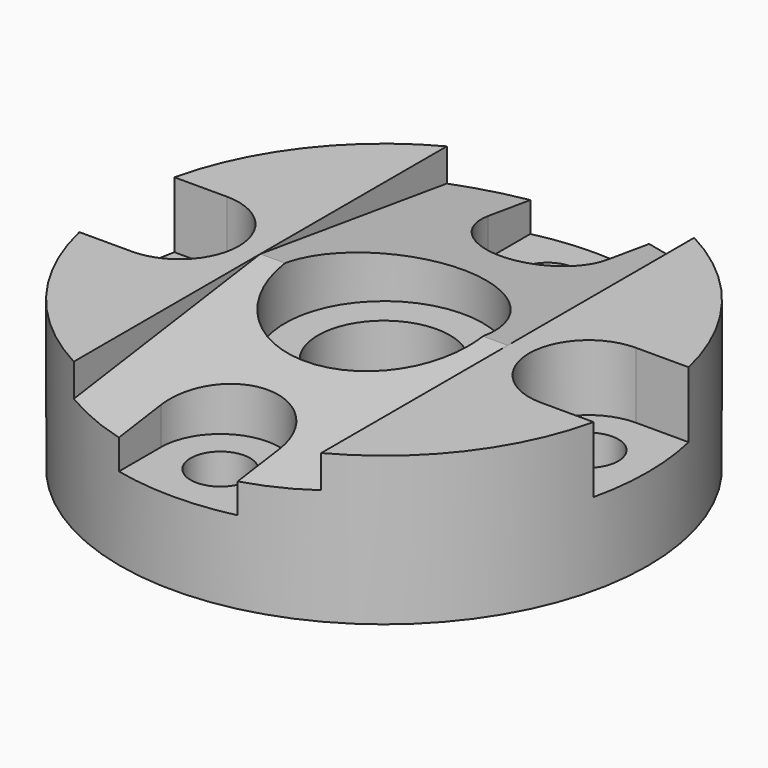
from build123d import *

# Parameters (mm, degrees)
PAD001_DEPTH          = 37.5
SKETCH_R              = 80
SKETCH_R_2            = 20
PAD_DEPTH             = 45
SKETCH001_R           = 30
POCKET_DEPTH          = 16
POCKET001_DEPTH       = 20
POLARPATTERN_COUNT    = 4
SKETCH003_R           = 9
POCKET002_DEPTH       = 486.41188
POLARPATTERN001_COUNT = 4


with BuildPart() as pad001:
    # Sketch004 → Pad001 (new body, symmetric)
    with BuildSketch(Plane.YZ):
        Polygon((0, 45), (-85, 33.054029), (-85, 45), align=None)
    extrude(amount=PAD001_DEPTH, both=True)


with BuildPart() as part_mirroring:
    # Part__Mirroring: instance of Pad001
    add(pad001.part.mirror(Plane(origin=(0, 0, 0), x_dir=(1, 0, 0), z_dir=(0, 1, 0))))


with BuildPart() as cut001:
    # Sketch → Pad (new body)
    with BuildSketch(Plane.XY):
        Circle(SKETCH_R)
        Circle(SKETCH_R_2, mode=Mode.SUBTRACT)
    extrude(amount=PAD_DEPTH)

    # Sketch001 → Pocket (cut)
    with BuildSketch(Plane.XY.offset(45)):
        Circle(SKETCH001_R)
    extrude(amount=-POCKET_DEPTH, mode=Mode.SUBTRACT)

    # Sketch002 → Pocket001 (cut)
    with BuildSketch(Plane.XY.offset(45)):
        with BuildLine():
            ThreePointArc((-18, -77.948701), (0, -80), (18, -77.948701))
            Line((18, -77.948701), (18, -62))
            ThreePointArc((18, -62), (-2.4e-05, -44), (-18, -62.000049))
            Line((-18, -77.948701), (-18, -62.000049))
        make_face()
    pocket001 = extrude(amount=-POCKET001_DEPTH, mode=Mode.SUBTRACT)

    # PolarPattern: Pocket001 ×4 about axis
    polarpattern_axis = Axis((0, 0, 45), (0, 0, 1))
    for i in range(1, POLARPATTERN_COUNT):
        add(pocket001.rotate(polarpattern_axis, i * 360 / POLARPATTERN_COUNT), mode=Mode.SUBTRACT)

    # Sketch003 → Pocket002 (cut, through all)
    with BuildSketch(Plane.XY.offset(25)):
        with Locations((0, -62)):
            Circle(SKETCH003_R)
    pocket002 = extrude(amount=-POCKET002_DEPTH, mode=Mode.SUBTRACT)

    # PolarPattern001: Pocket002 ×4 about axis
    polarpattern001_axis = Axis((0, 0, 25), (0, 0, 1))
    for i in range(1, POLARPATTERN001_COUNT):
        add(pocket002.rotate(polarpattern001_axis, i * 360 / POLARPATTERN001_COUNT), mode=Mode.SUBTRACT)

    # Cut: cut Part__Mirroring
    add(part_mirroring.part, mode=Mode.SUBTRACT)

    # Cut001: cut Pad001
    add(pad001.part, mode=Mode.SUBTRACT)


solid = cut001.part
